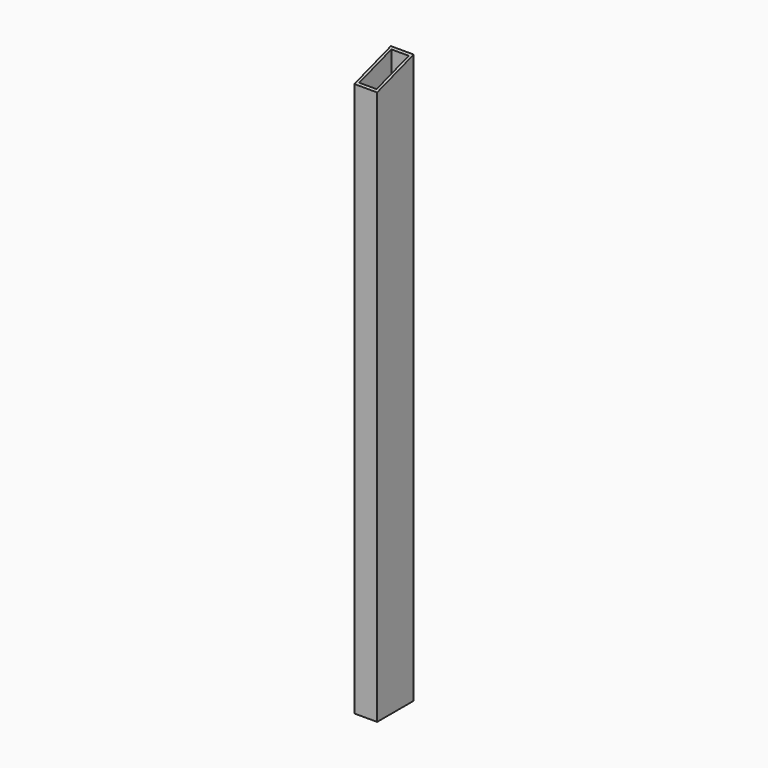
from build123d import *

# Parameters (mm, degrees)
F1_DEPTH = 25
F3_DEPTH = 1000


with BuildPart() as f1:
    # F0 (on Right) → F1 (new body)
    with BuildSketch(Plane.YZ):
        Polygon((2050, 607.0395298403), (2050, 0), (2100, 0), (2100, 623.2855146519), align=None)
    extrude(amount=F1_DEPTH)

    # F2 (on face) → F3 (cut)
    with BuildSketch(Plane(origin=(0, 0, 0), x_dir=(1, 0, 0), z_dir=(0, 0, -1))):
        Polygon((12.5, -2075), (22, -2094), (22, -2056), align=None)
        Polygon((22, -2097), (22, -2094), (12.5, -2075), (3, -2094), (3, -2097), align=None)
        Polygon((3, -2094), (12.5, -2075), (3, -2056), align=None)
        Polygon((3, -2056), (12.5, -2075), (22, -2056), (22, -2053), (3, -2053), align=None)
    extrude(amount=-F3_DEPTH, mode=Mode.SUBTRACT)


solid = f1.part
